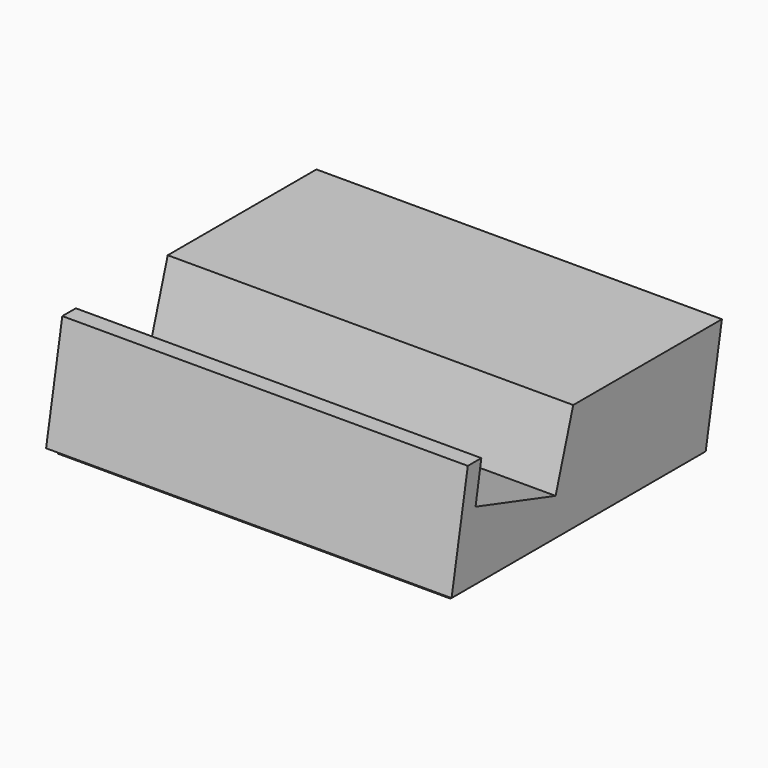
from build123d import *

# Parameters (mm, degrees)
F0_W      = 60
F0_H      = 47
F1_DEPTH  = 16
F2_W      = 58
F2_H      = 45
F3_DEPTH  = 0.8
F4_W      = 56
F4_H      = 43
F5_DEPTH  = 0.5
F7_DEPTH  = 60
F9_DEPTH  = 60.001
F11_DEPTH = 60.001
F14_W     = 15.5
F14_H     = 9
F15_DEPTH = 25
F9_FACE_W = 60
F9_FACE_H = 16.2788205961
F17_DEPTH = 1.5


with BuildPart() as f1:
    # F0 (on Top) → F1 (new body)
    with BuildSketch(Plane.XY):
        Rectangle(F0_W, F0_H)
    extrude(amount=F1_DEPTH)

    # F2 (on face) → F3 (join)
    with BuildSketch(Plane(origin=(0, 0, 0), x_dir=(1, 0, 0), z_dir=(0, 0, -1))):
        Rectangle(F2_W, F2_H)
    extrude(amount=F3_DEPTH)

    # F4 (on face) → F5 (cut)
    with BuildSketch(Plane(origin=(0, 0, -0.8), x_dir=(1, 0, 0), z_dir=(0, 0, -1))):
        Rectangle(F4_W, F4_H)
    extrude(amount=-F5_DEPTH, mode=Mode.SUBTRACT)

    # F6 (on face) → F7 (join)
    with BuildSketch(Plane.YZ.offset(30)):
        Polygon((26.5, 16), (23.5, 16), (23.5, 0), align=None)
    extrude(amount=-F7_DEPTH)

    # F8 (on face) → F9 (cut, through all)
    with BuildSketch(Plane.YZ.offset(30)):
        Polygon((-20.5, 16), (-23.5, 16), (-23.5, 0), align=None)
    extrude(amount=-F9_DEPTH, mode=Mode.SUBTRACT)

    # F10 (on face) → F11 (cut, through all)
    with BuildSketch(Plane.YZ.offset(30)):
        Polygon((-4.261999952, 5.4947938472), (-1, 16), (-18, 16), (-19.0636169243, 10.0950259071), align=None)
    extrude(amount=-F11_DEPTH, mode=Mode.SUBTRACT)

    # F14 (on plane+point) → F15 (cut)
    with BuildSketch(Plane.XZ.offset(-15.5)):
        with Locations((0, 4.5)):
            Rectangle(F14_W, F14_H)
    extrude(amount=-F15_DEPTH, mode=Mode.SUBTRACT)

    # F16 (on face) + F9_face (on face) → F17 (cut)
    with BuildSketch(Plane(origin=(0, 1.1819033976, 3.8028693253), x_dir=(1, 0, 0), z_dir=(0, 0.2967891652, 0.9549430305))):
        with BuildLine():
            ThreePointArc((7.5, -15.4507624286), (9.5, -13.4507624286), (7.5, -11.4507624286))
            Line((7.5, -11.4507624286), (-7.5, -11.4507624286))
            ThreePointArc((-7.5, -11.4507624286), (-9.5, -13.4507624286), (-7.5, -15.4507624286))
            Line((-7.5, -15.4507624286), (7.5, -15.4507624286))
        make_face()
    with BuildSketch(Plane(origin=(0, -22, 8), x_dir=(1, 0, 0), z_dir=(0, -0.9828721869, 0.1842885351))):
        Rectangle(F9_FACE_W, F9_FACE_H)
    extrude(amount=-F17_DEPTH, dir=(0, 0.2967891652, 0.9549430305), mode=Mode.SUBTRACT)


solid = f1.part
